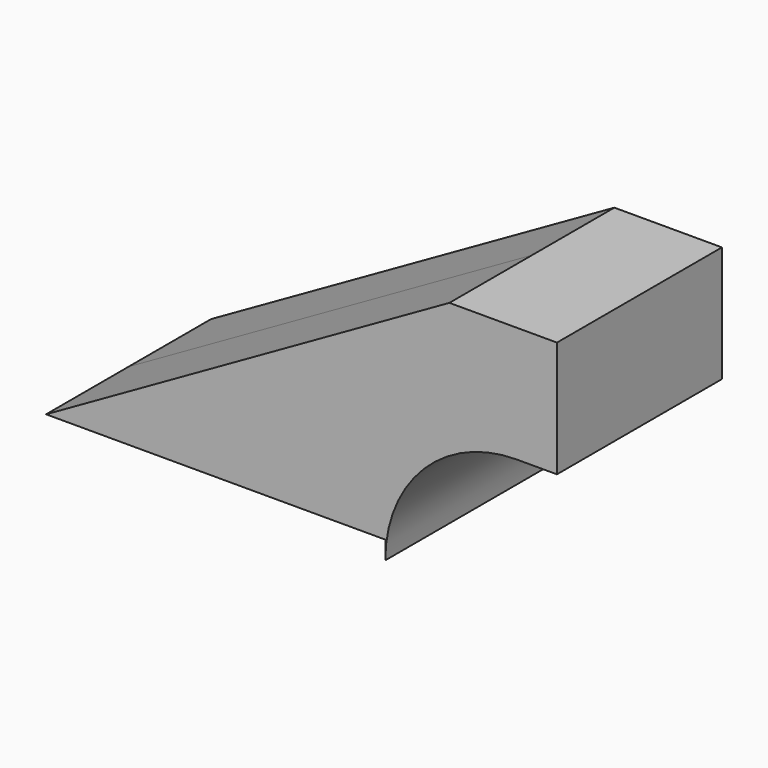
from build123d import *

# Parameters (mm, degrees)
F1_DEPTH = 25.4


with BuildPart() as f1:
    # F0 (on Front) → F1 (new body, symmetric)
    with BuildSketch(Plane.XZ):
        with BuildLine():
            add(Edge.make_bspline(
                [(-41.783, 9.525), (-8.662323, 28.353557), (24.458353, 47.182114), (57.57903, 66.010671)],
                knots=[0, 0, 0, 0, 114.295424, 114.295424, 114.295424, 114.295424], degree=3))
            Line((-41.783, 9.525), (41.783, 9.525))
            Line((41.783, 9.525), (41.783, 5.025078))
            ThreePointArc((41.783, 5.025078), (51.275843, 27.942828), (74.193593, 37.435671))
            Line((74.193593, 37.435671), (71.574898, 37.435671))
            Line((71.574898, 37.435671), (57.57903, 37.435671))
            Line((57.57903, 37.435671), (57.57903, 66.010671))
        make_face()
        Polygon((84.075562, 66.010671), (57.57903, 66.010671), (57.57903, 37.435671), (71.574898, 37.435671), (74.193593, 37.435671), (84.075562, 37.435671), align=None)
    extrude(amount=F1_DEPTH, both=True)


solid = f1.part
